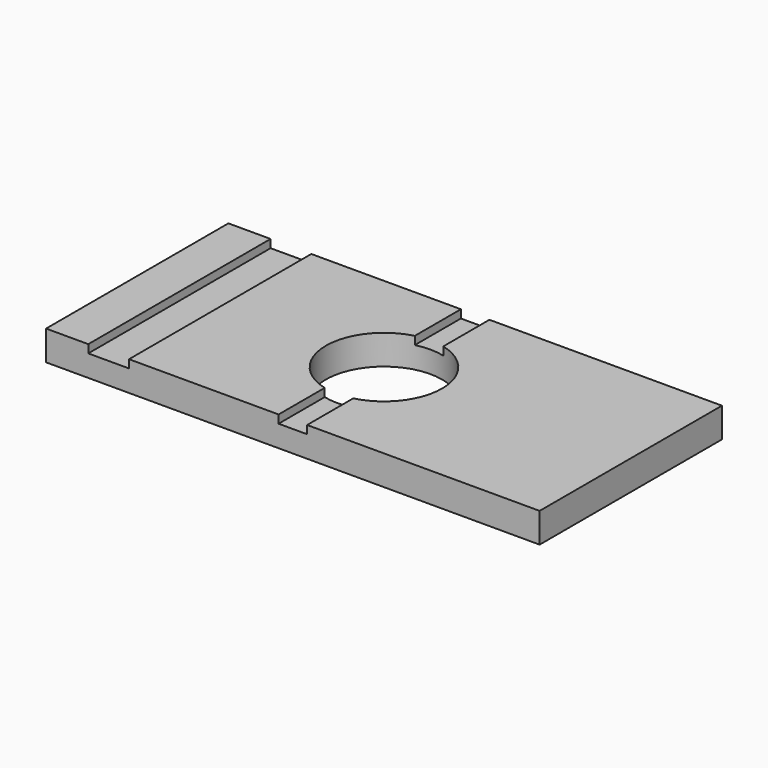
from build123d import *

# Parameters (mm, degrees)
F0_W     = 121.1435347795
F0_H     = 55.9340305626
F0_R     = 14.2505593298
F1_DEPTH = 7.3
F2_W     = 10
F2_H     = 55.9340305626
F3_DEPTH = 2


with BuildPart() as f1:
    # F0 (on Top) → F1 (new body)
    with BuildSketch(Plane.XY):
        Rectangle(F0_W, F0_H)
        Circle(F0_R, mode=Mode.SUBTRACT)
    extrude(amount=F1_DEPTH)

    # F2 (on face) → F3 (cut)
    with BuildSketch(Plane.XY.offset(7.3)):
        with BuildLine():
            Line((3.5, 27.9670152813), (-3.5, 27.9670152813))
            Line((-3.5, 27.9670152813), (-3.5, 13.8140667876))
            ThreePointArc((-3.5, 13.8140667876), (0, 14.2505593298), (3.5, 13.8140667876))
            Line((3.5, 13.8140667876), (3.5, 27.9670152813))
        make_face()
        with BuildLine():
            Line((-3.5, -13.8140667876), (-3.5, -27.9670152813))
            Line((-3.5, -27.9670152813), (3.5, -27.9670152813))
            Line((3.5, -27.9670152813), (3.5, -13.8140667876))
            ThreePointArc((3.5, -13.8140667876), (0, -14.2505593298), (-3.5, -13.8140667876))
        make_face()
        with Locations((-45.2155907452, 0)):
            Rectangle(F2_W, F2_H)
    extrude(amount=-F3_DEPTH, mode=Mode.SUBTRACT)


solid = f1.part
